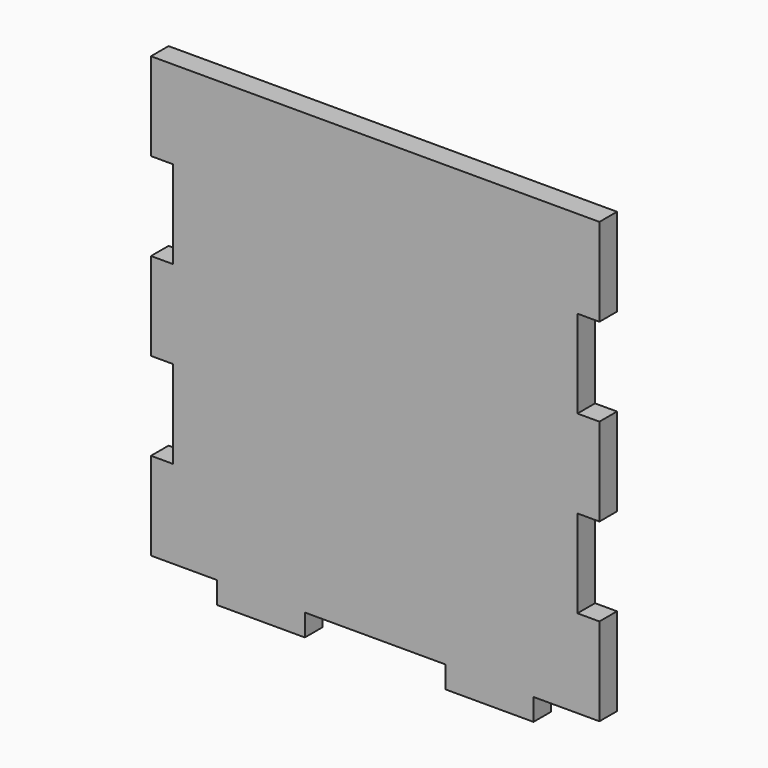
from build123d import *

# Parameters (mm, degrees)
F1_DEPTH = 3.175


with BuildPart() as f1:
    # F0 (on Front) → F1 (new body)
    with BuildSketch(Plane.XZ):
        Polygon((22.86, -31.75), (32.385, -31.75), (32.385, -19.05), (29.21, -19.05), (29.21, -6.35), (32.385, -6.35), (32.385, 6.35), (29.21, 6.35), (29.21, 19.05), (32.385, 19.05), (32.385, 31.75), (-32.385, 31.75), (-32.385, 19.05), (-29.21, 19.05), (-29.21, 6.35), (-32.385, 6.35), (-32.385, -6.35), (-29.21, -6.35), (-29.21, -19.05), (-32.385, -19.05), (-32.385, -31.75), (-22.86, -31.75), (-22.86, -34.925), (-10.16, -34.925), (-10.16, -31.75), (10.16, -31.75), (10.16, -34.925), (22.86, -34.925), align=None)
    extrude(amount=F1_DEPTH)


solid = f1.part
